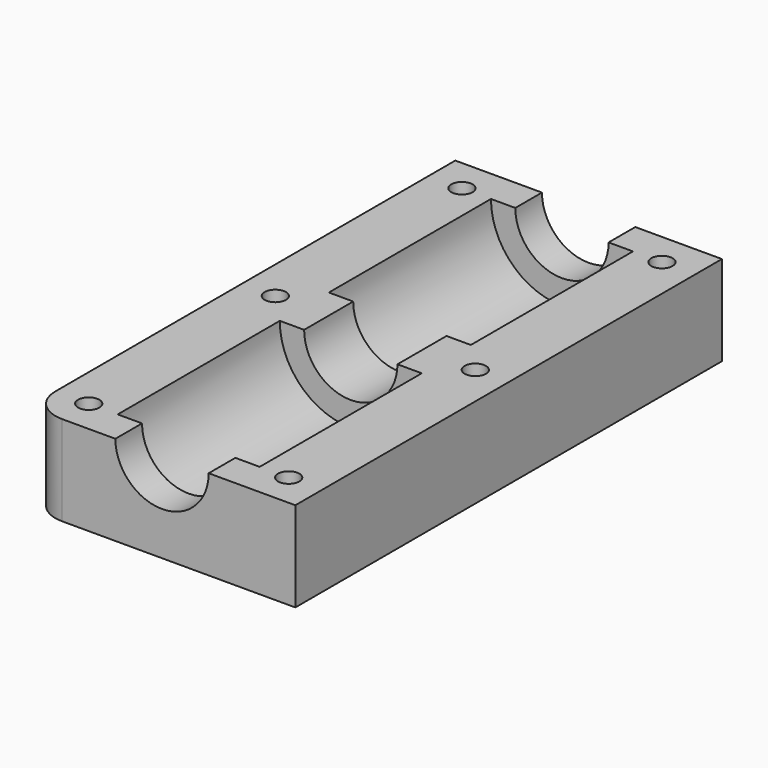
from build123d import *

# Parameters (mm, degrees)
PAD_DEPTH       = 80
SKETCH001_R     = 1.6
POCKET_DEPTH    = 13.501
SKETCH002_R     = 3
POCKET001_DEPTH = 5
SKETCH003_R     = 10.65
POCKET002_DEPTH = 30.4
SKETCH004_R     = 10.65
POCKET003_DEPTH = 30.4
FILLET_R        = 5


with BuildPart() as part:
    # Sketch → Pad (new body)
    with BuildSketch(Plane.XZ):
        with BuildLine():
            Line((20, 0), (20, -13.5))
            Line((20, -13.5), (-20, -13.5))
            Line((-20, -13.5), (-20, 0))
            Line((-20, 0), (-7, 0))
            ThreePointArc((-7, 0), (0, -7), (7, 0))
            Line((7, 0), (20, 0))
        make_face()
    extrude(amount=PAD_DEPTH)

    # Sketch001 → Pocket (cut, through all)
    with BuildSketch(Plane.XY):
        with Locations((-15, -5)):
            Circle(SKETCH001_R)
        with Locations((-15, -40)):
            Circle(SKETCH001_R)
        with Locations((-15, -75)):
            Circle(SKETCH001_R)
        with Locations((15, -5)):
            Circle(SKETCH001_R)
        with Locations((15, -40)):
            Circle(SKETCH001_R)
        with Locations((15, -75)):
            Circle(SKETCH001_R)
    extrude(amount=-POCKET_DEPTH, mode=Mode.SUBTRACT)

    # Sketch002 (on DatumPlane) → Pocket001 (cut)
    with BuildSketch(Plane.XY.offset(-13.5)):
        with Locations((-15, -5)):
            Circle(SKETCH002_R)
        with Locations((-15, -40)):
            Circle(SKETCH002_R)
        with Locations((-15, -75)):
            Circle(SKETCH002_R)
        with Locations((15, -5)):
            Circle(SKETCH002_R)
        with Locations((15, -40)):
            Circle(SKETCH002_R)
        with Locations((15, -75)):
            Circle(SKETCH002_R)
    extrude(amount=POCKET001_DEPTH, mode=Mode.SUBTRACT)

    # Sketch003 (on DatumPlane) → Pocket002 (cut)
    with BuildSketch(Plane.XZ.offset(5)):
        Circle(SKETCH003_R)
    extrude(amount=POCKET002_DEPTH, mode=Mode.SUBTRACT)

    # Sketch004 (on DatumPlane) → Pocket003 (cut)
    with BuildSketch(Plane.XZ.offset(75)):
        Circle(SKETCH004_R)
    extrude(amount=-POCKET003_DEPTH, mode=Mode.SUBTRACT)

    # Fillet
    fillet_edges = [part.edges().sort_by_distance(p)[0] for p in [
        (-20, -80, -6.75),
    ]]
    fillet(fillet_edges, radius=FILLET_R)


solid = part.part
